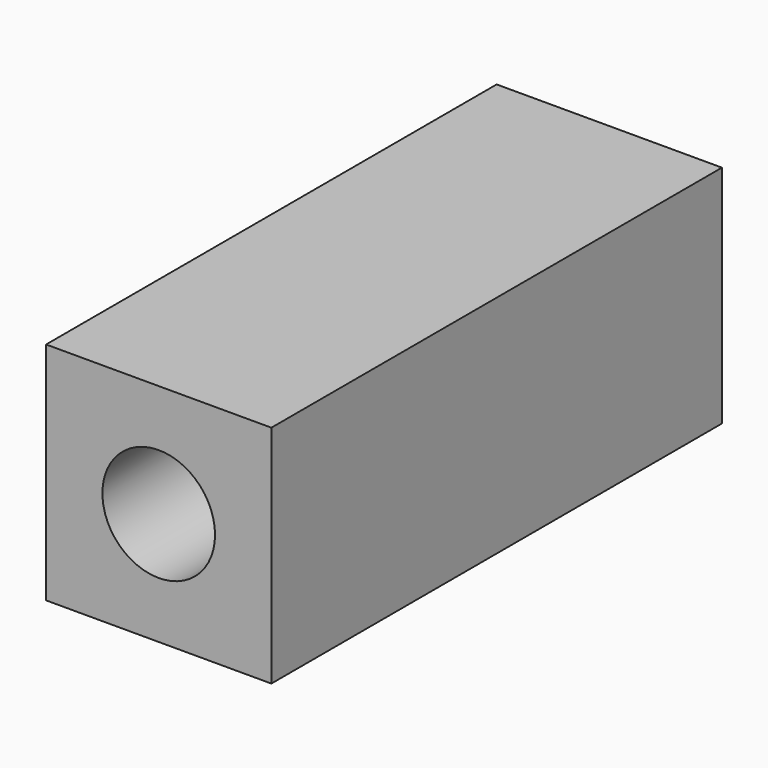
from build123d import *

# Parameters (mm, degrees)
F0_W     = 40
F0_H     = 40
F0_R     = 10
F1_DEPTH = 100


with BuildPart() as f1:
    # F0 (on Front) → F1 (new body)
    with BuildSketch(Plane.XZ):
        Rectangle(F0_W, F0_H)
        Circle(F0_R, mode=Mode.SUBTRACT)
    extrude(amount=F1_DEPTH)


with BuildPart() as f3:
    # F2 (on Right) → F3 (revolve)
    with BuildSketch(Plane.YZ):
        Polygon((0, 10), (-46, 10), (-46, 6), (4, 6), (4, 15), (0, 15), align=None)
    revolve(axis=Axis((0, -23, 0), (0, 1, 0)))


solid = Compound([f1.part, f3.part])
